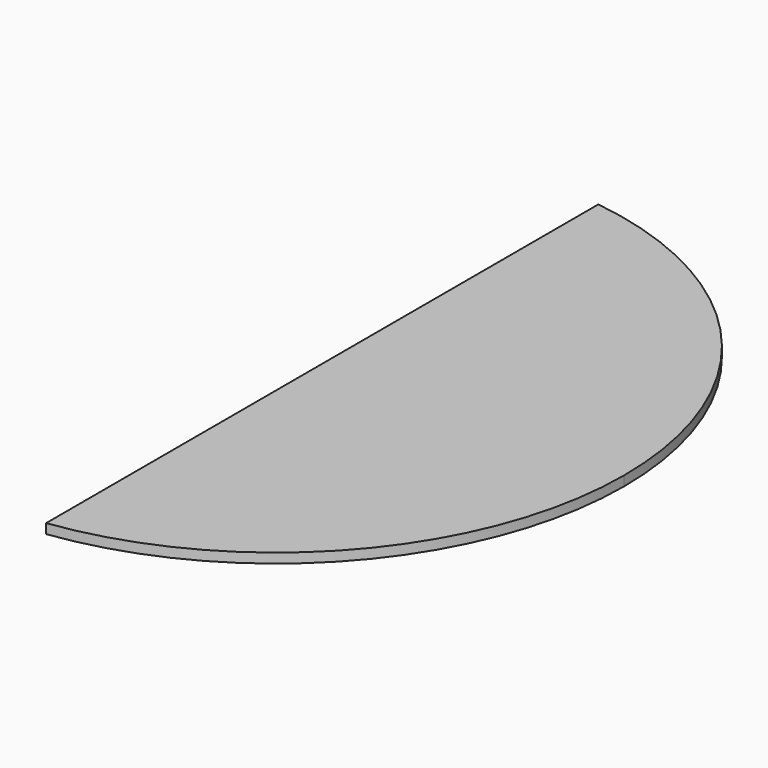
from build123d import *

# Parameters (mm, degrees)
F1_DEPTH = 28.575


with BuildPart() as f1:
    # F0 (on Top) → F1 (new body)
    with BuildSketch(Plane.XY):
        with BuildLine():
            ThreePointArc((444.5, 0), (190.873439, 675.014259), (-444.5, 1016))
            Line((-444.5, 1016), (-444.5, 0))
            Line((-444.5, 0), (444.5, 0))
        make_face()
        with BuildLine():
            ThreePointArc((-444.5, -1016), (190.873439, -675.014259), (444.5, 0))
            Line((444.5, 0), (-444.5, 0))
            Line((-444.5, 0), (-444.5, -1016))
        make_face()
    extrude(amount=F1_DEPTH)


solid = f1.part
